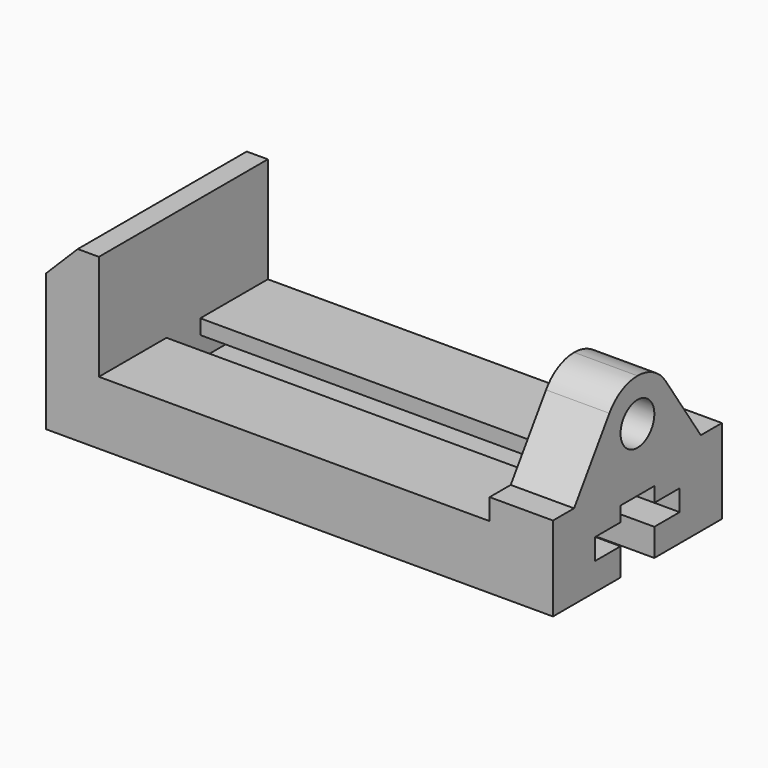
from build123d import *

# Parameters (mm, degrees)
F1_DEPTH = 127
F2_SIZE  = 19.05
F4_DEPTH = 273.05
F5_R     = 12.7
F6_DEPTH = 38.1


with BuildPart() as f1:
    # F0 (on Front) → F1 (new body)
    with BuildSketch(Plane.XZ):
        Polygon((-304.8, 0), (0, 0), (0, 101.6), (-38.1, 101.6), (-38.1, 38.1), (-273.05, 38.1), (-273.05, 101.6), (-304.8, 101.6), align=None)
    extrude(amount=-F1_DEPTH)

    # F2
    f2_edges = [f1.edges().sort_by_distance(p)[0] for p in [
        (-304.8, 63.5, 101.6),
    ]]
    chamfer(f2_edges, length=F2_SIZE)

    # F3 (on face) → F4 (cut)
    with BuildSketch(Plane.YZ):
        Polygon((50.8, 0), (63.5, 0), (76.2, 0), (76.2, 16.51), (95.25, 16.51), (95.25, 29.21), (76.2, 29.21), (76.2, 38.1), (50.8, 38.1), (50.8, 29.21), (31.75, 29.21), (31.75, 16.51), (50.8, 16.51), align=None)
    extrude(amount=-F4_DEPTH, mode=Mode.SUBTRACT)

    # F5 (on face) → F6 (cut, through all)
    with BuildSketch(Plane.YZ):
        with BuildLine():
            ThreePointArc((42.406574, 90.350173), (51.547059, 98.611765), (63.5, 101.6))
            Line((63.5, 101.6), (0, 101.6))
            Line((0, 101.6), (0, 50.8))
            Line((0, 50.8), (15.875, 50.8))
            Line((15.875, 50.8), (42.406574, 90.350173))
        make_face()
        with BuildLine():
            Line((127, 101.6), (63.5, 101.6))
            ThreePointArc((63.5, 101.6), (75.452941, 98.611765), (84.593426, 90.350173))
            Line((84.593426, 90.350173), (111.125, 50.8))
            Line((111.125, 50.8), (127, 50.8))
            Line((127, 50.8), (127, 101.6))
        make_face()
        with Locations((63.5, 76.2)):
            Circle(F5_R)
    extrude(amount=-F6_DEPTH, mode=Mode.SUBTRACT)


solid = f1.part
